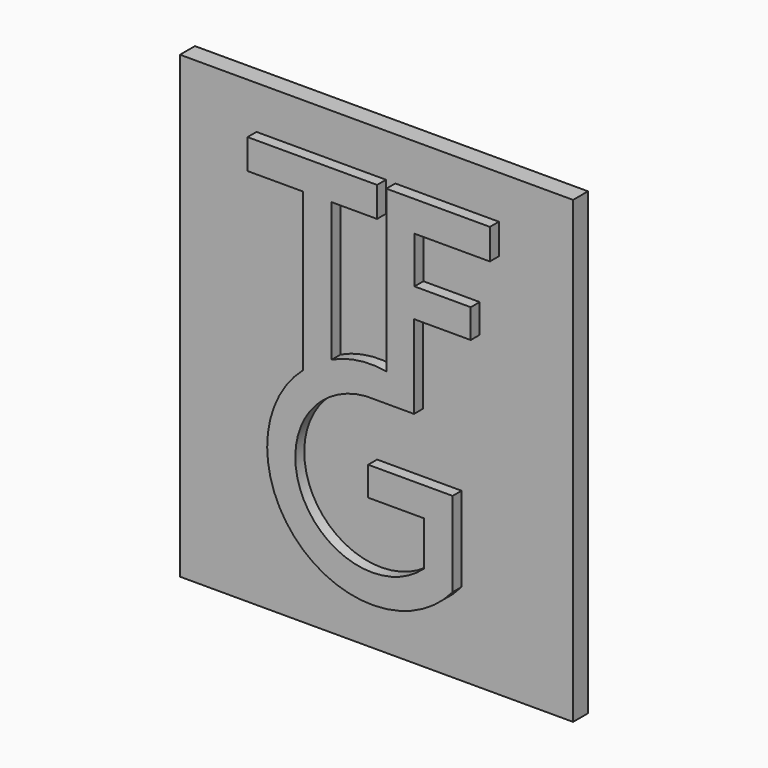
from build123d import *

# Parameters (mm, degrees)
F1_DEPTH = 8
F0_W     = 105.344538
F0_H     = 123.1579
F2_DEPTH = 5


with BuildPart() as f1:
    # F0 (on Front) → F1 (new body)
    with BuildSketch(Plane.XZ):
        with BuildLine():
            Line((-2.87472, 36.764536), (-37.589382, 36.764536))
            Line((-37.589382, 36.764536), (-37.589382, 28.751753))
            Line((-37.589382, 28.751753), (-22.742165, 28.751753))
            Line((-22.742165, 28.751753), (-22.742165, -13.41701))
            ThreePointArc((-22.742165, -13.41701), (-23.878669, -54.691709), (17.365061, -52.730281))
            Line((17.365061, -52.730281), (17.365061, -30.021282))
            Line((17.365061, -30.021282), (-5.269451, -30.021282))
            Line((-5.269451, -30.021282), (-5.269451, -37.798513))
            Line((-5.269451, -37.798513), (9.654424, -37.798513))
            Line((9.654424, -37.798513), (9.654424, -49.709588))
            ThreePointArc((9.654424, -49.709588), (-23.069889, -42.774058), (-5.935356, -14.044456))
            Line((-5.935356, -14.044456), (7.02121, -14.044456))
            Line((7.02121, -14.044456), (7.02121, 8.327493))
            Line((7.02121, 8.327493), (22.22747, 8.327493))
            Line((22.22747, 8.327493), (22.22747, 16.076434))
            Line((22.22747, 16.076434), (7.146193, 16.076434))
            Line((7.146193, 16.076434), (7.146193, 28.533069))
            Line((7.146193, 28.533069), (27.351769, 28.533069))
            Line((27.351769, 28.533069), (27.351769, 36.698621))
            Line((27.351769, 36.698621), (-0.393333, 36.698621))
            Line((-0.393333, 36.698621), (-0.393333, -6.419901))
            ThreePointArc((-0.393333, -6.419901), (-7.871231, -6.288673), (-15.039727, -8.421474))
            Line((-15.039727, -8.421474), (-15.039727, 28.740121))
            Line((-15.039727, 28.740121), (-2.87472, 28.740121))
            Line((-2.87472, 28.740121), (-2.87472, 36.764536))
        make_face()
    extrude(amount=F1_DEPTH)

    # F0 (on Front) → F2 (join)
    with BuildSketch(Plane.XZ):
        with Locations((-5.420411, -13.26658)):
            Rectangle(F0_W, F0_H)
        with BuildLine():
            Line((-37.589382, 28.751753), (-37.589382, 36.764536))
            Line((-37.589382, 36.764536), (-2.87472, 36.764536))
            Line((-2.87472, 36.764536), (-2.87472, 28.740121))
            Line((-2.87472, 28.740121), (-15.039727, 28.740121))
            Line((-15.039727, 28.740121), (-15.039727, -8.421474))
            ThreePointArc((-15.039727, -8.421474), (-7.871231, -6.288673), (-0.393333, -6.419901))
            Line((-0.393333, -6.419901), (-0.393333, 36.698621))
            Line((-0.393333, 36.698621), (27.351769, 36.698621))
            Line((27.351769, 36.698621), (27.351769, 28.533069))
            Line((27.351769, 28.533069), (7.146193, 28.533069))
            Line((7.146193, 28.533069), (7.146193, 16.076434))
            Line((7.146193, 16.076434), (22.22747, 16.076434))
            Line((22.22747, 16.076434), (22.22747, 8.327493))
            Line((22.22747, 8.327493), (7.02121, 8.327493))
            Line((7.02121, 8.327493), (7.02121, -14.044456))
            Line((7.02121, -14.044456), (-5.935356, -14.044456))
            ThreePointArc((-5.935356, -14.044456), (-23.069889, -42.774058), (9.654424, -49.709588))
            Line((9.654424, -49.709588), (9.654424, -37.798513))
            Line((9.654424, -37.798513), (-5.269451, -37.798513))
            Line((-5.269451, -37.798513), (-5.269451, -30.021282))
            Line((-5.269451, -30.021282), (17.365061, -30.021282))
            Line((17.365061, -30.021282), (17.365061, -52.730281))
            ThreePointArc((17.365061, -52.730281), (-23.878669, -54.691709), (-22.742165, -13.41701))
            Line((-22.742165, -13.41701), (-22.742165, 28.751753))
            Line((-22.742165, 28.751753), (-37.589382, 28.751753))
        make_face(mode=Mode.SUBTRACT)
    extrude(amount=F2_DEPTH)


solid = f1.part
